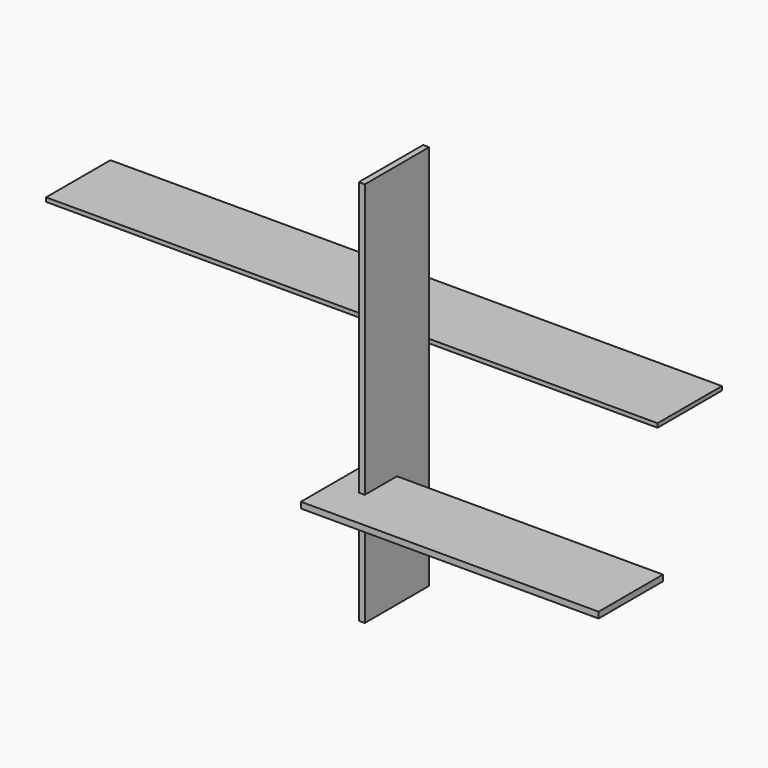
from build123d import *

# Parameters (mm, degrees)
F0_W     = 254
F0_H     = 1219.2
F1_DEPTH = 19.05
F2_W     = 1930.4
F2_H     = 254
F3_DEPTH = 12.7
F4_W     = 939.8
F4_H     = 19.05
F5_DEPTH = 254


with BuildPart() as f1:
    # F0 (on Right) → F1 (new body)
    with BuildSketch(Plane.YZ):
        Rectangle(F0_W, F0_H)
    extrude(amount=F1_DEPTH)


with BuildPart() as f3:
    # F2 (on Top) → F3 (new body)
    with BuildSketch(Plane.XY):
        with Locations((-302.248406, 350.446586)):
            Rectangle(F2_W, F2_H)
    extrude(amount=F3_DEPTH)


with BuildPart() as f5:
    # F4 (on Front) → F5 (new body)
    with BuildSketch(Plane.XZ):
        with Locations((388.857713, -262.897536)):
            Rectangle(F4_W, F4_H)
    extrude(amount=F5_DEPTH)


solid = Compound([f1.part, f3.part, f5.part])
